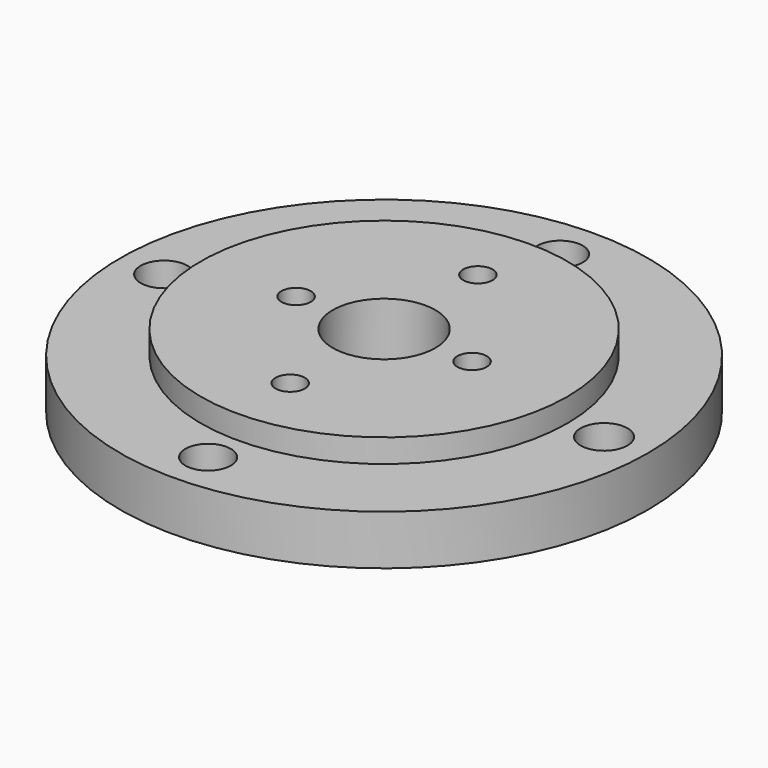
from build123d import *

# Parameters (mm, degrees)
SKETCH001_R      = 40
SKETCH001_R_2    = 12.5
EXTRUDE001_DEPTH = 1.6
SKETCH_R         = 18
SKETCH_R_2       = 1.55
SKETCH_R_3       = 1.6
SKETCH_R_4       = 3.5
SKETCH_R_5       = 1
EXTRUDE_DEPTH    = 5


with BuildPart() as extrude001:
    # Sketch001 (on Face7 of Extrude) → Extrude001 (new body)
    with BuildSketch(Plane.XY.offset(5)):
        Circle(SKETCH001_R)
        Circle(SKETCH001_R_2, mode=Mode.SUBTRACT)
    extrude(amount=-EXTRUDE001_DEPTH)


with BuildPart() as cut:
    # Sketch → Extrude (new body)
    with BuildSketch(Plane.XY):
        Circle(SKETCH_R)
        with Locations((0, 15)):
            Circle(SKETCH_R_2, mode=Mode.SUBTRACT)
        with Locations((-15, 0)):
            Circle(SKETCH_R_3, mode=Mode.SUBTRACT)
        with Locations((15, 0)):
            Circle(SKETCH_R_3, mode=Mode.SUBTRACT)
        with Locations((0, -15)):
            Circle(SKETCH_R_2, mode=Mode.SUBTRACT)
        Circle(SKETCH_R_4, mode=Mode.SUBTRACT)
        with Locations((0, 8)):
            Circle(SKETCH_R_5, mode=Mode.SUBTRACT)
        with Locations((6, 0)):
            Circle(SKETCH_R_5, mode=Mode.SUBTRACT)
        with Locations((0, -8)):
            Circle(SKETCH_R_5, mode=Mode.SUBTRACT)
        with Locations((-6, 0)):
            Circle(SKETCH_R_5, mode=Mode.SUBTRACT)
    extrude(amount=EXTRUDE_DEPTH)

    # Cut: cut Extrude001
    add(extrude001.part, mode=Mode.SUBTRACT)


solid = cut.part
